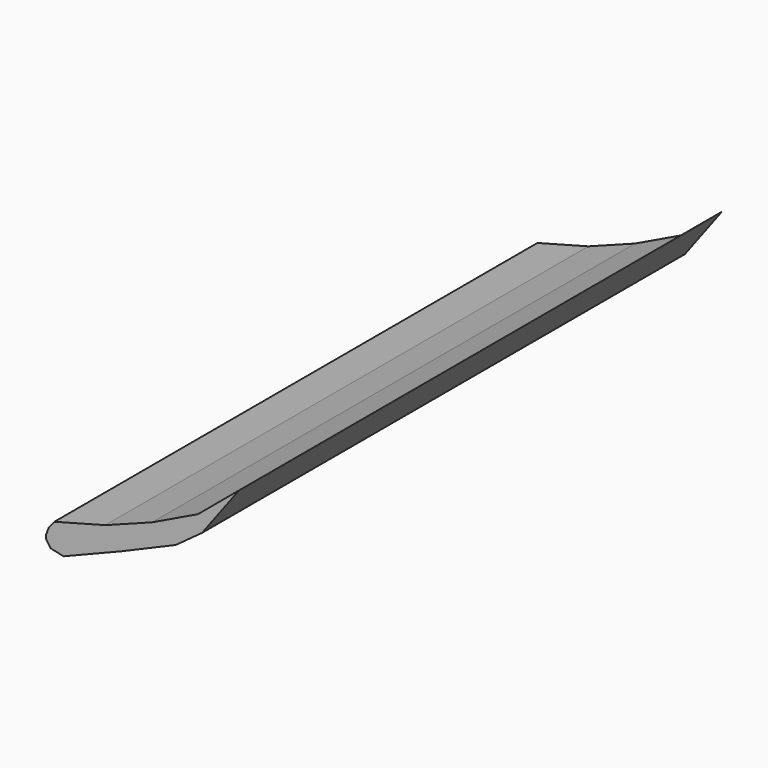
from build123d import *

# Parameters (mm, degrees)
F2_DEPTH = 556.801766


with BuildPart() as f2:
    # F1 (on face) → F2 (new body)
    with BuildSketch(Plane.XZ):
        Polygon((186.858073, -20.328358), (143.661797, -36.65515), (96.757501, -49.140722), (91.546595, -55.534076), (89.102589, -62.149316), (89.102589, -65.869093), (93.278132, -71.854644), (105.204381, -74.46938), (158.463895, -53.086873), (208.673149, -31.618662), (232.826486, -13.993978), (266.922325, 31.569343), (229.087561, 0), align=None)
    extrude(amount=F2_DEPTH)


solid = f2.part
